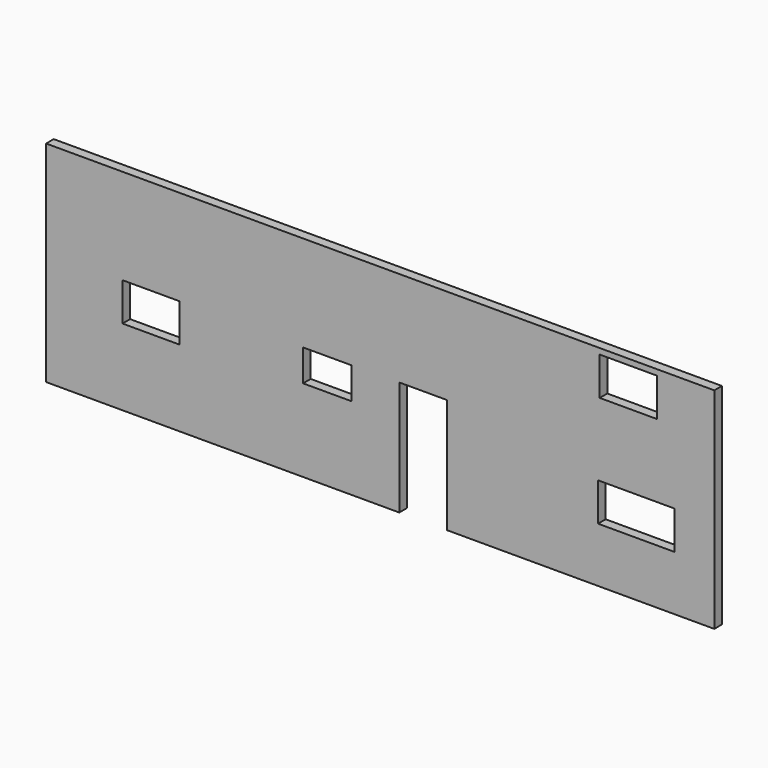
from build123d import *

# Parameters (mm, degrees)
F0_W     = 914.4
F0_H     = 609.6
F0_W_2   = 773.993105
F0_H_2   = 505.245507
F0_W_3   = 1219.2
F1_DEPTH = 152.4


with BuildPart() as f1:
    # F0 (on Front) → F1 (new body)
    with BuildSketch(Plane.XZ):
        Polygon((5334, 1676.4), (-5334, 1676.4), (-5334, -1676.4), (304.8, -1676.4), (304.8, 152.4), (1066.8, 152.4), (1066.8, -1676.4), (5334, -1676.4), align=None)
        with Locations((-3657.6, -152.4)):
            Rectangle(F0_W, F0_H, mode=Mode.SUBTRACT)
        with Locations((-843.867495, -107.560158)):
            Rectangle(F0_W_2, F0_H_2, mode=Mode.SUBTRACT)
        with Locations((4087.194137, -496.12895)):
            Rectangle(F0_W_3, F0_H, mode=Mode.SUBTRACT)
        with Locations((3962.4, 1280.16)):
            Rectangle(F0_W, F0_H, mode=Mode.SUBTRACT)
    extrude(amount=F1_DEPTH)


solid = f1.part
